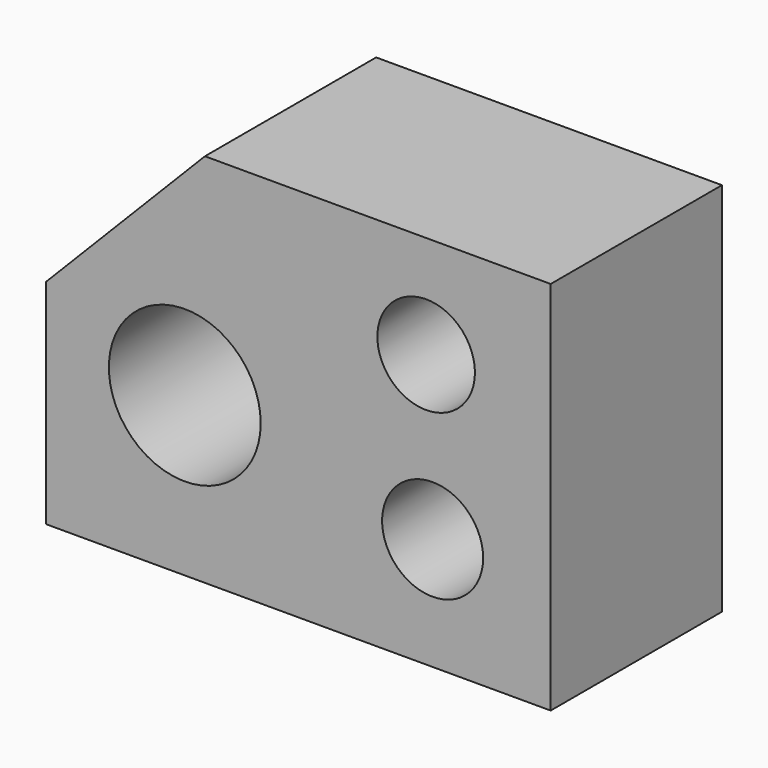
from build123d import *

# Parameters (mm, degrees)
F1_DEPTH = 31.75
F2_R     = 7.237328
F2_R_2   = 7.492319
F2_R_3   = 11.262041
F3_DEPTH = 76.2


with BuildPart() as f1:
    # F0 (on Front) → F1 (new body)
    with BuildSketch(Plane.XZ):
        Polygon((23.56123, 60.866501), (0, 36.814418), (0, 5.154018), (74.855983, 5.154018), (74.855983, 60.866501), align=None)
    extrude(amount=F1_DEPTH)

    # F2 (on face) → F3 (cut)
    with BuildSketch(Plane.XZ.offset(31.75)):
        with Locations((56.380846, 45.629557)):
            Circle(F2_R)
        with Locations((57.339922, 21.812528)):
            Circle(F2_R_2)
        with Locations((20.575382, 28.685898)):
            Circle(F2_R_3)
    extrude(amount=-F3_DEPTH, mode=Mode.SUBTRACT)


solid = f1.part
